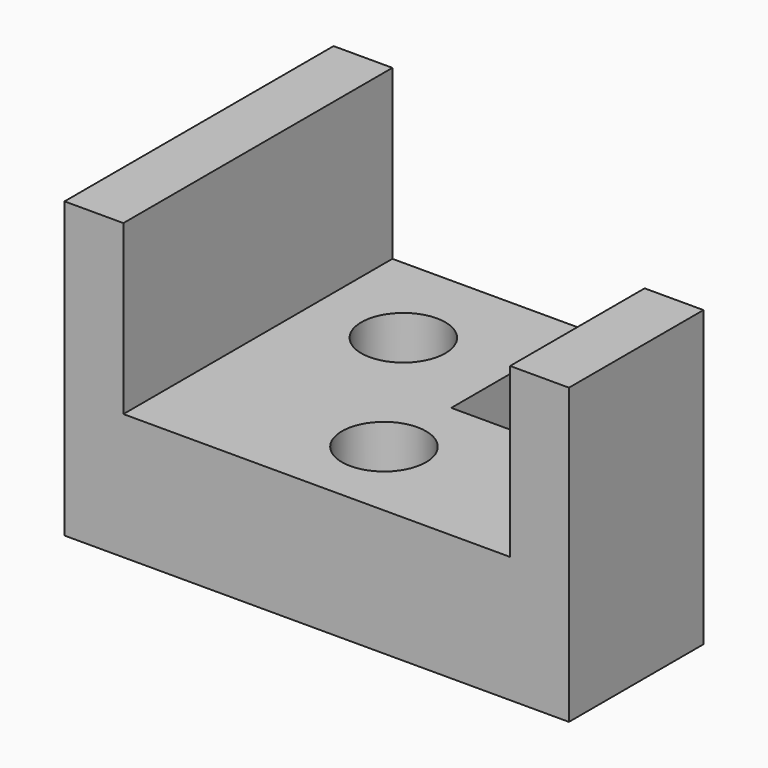
from build123d import *

# Parameters (mm, degrees)
F0_R     = 6.35
F1_DEPTH = 19.05
F2_W     = 8.89
F2_H     = 25.4
F3_DEPTH = 25.4
F2_H_2   = 50.8
F4_DEPTH = 25.4


with BuildPart() as f1:
    # F0 (on Top) → F1 (new body)
    with BuildSketch(Plane.XY):
        Polygon((38.1, -12.7), (38.1, 12.7), (0, 12.7), (0, 38.1), (-38.1, 38.1), (-38.1, 12.7), (-38.1, -12.7), align=None)
        Circle(F0_R, mode=Mode.SUBTRACT)
        with Locations((-15.603517, 23.15443)):
            Circle(F0_R, mode=Mode.SUBTRACT)
    extrude(amount=F1_DEPTH)

    # F2 (on face) → F3 (join)
    with BuildSketch(Plane.XY.offset(19.05)):
        with Locations((33.655, 0)):
            Rectangle(F2_W, F2_H)
    extrude(amount=F3_DEPTH)

    # F2 (on face) → F4 (join)
    with BuildSketch(Plane.XY.offset(19.05)):
        with Locations((-33.655, 12.7)):
            Rectangle(F2_W, F2_H_2)
        with Locations((33.655, 0)):
            Rectangle(F2_W, F2_H)
    extrude(amount=F4_DEPTH)


solid = f1.part
